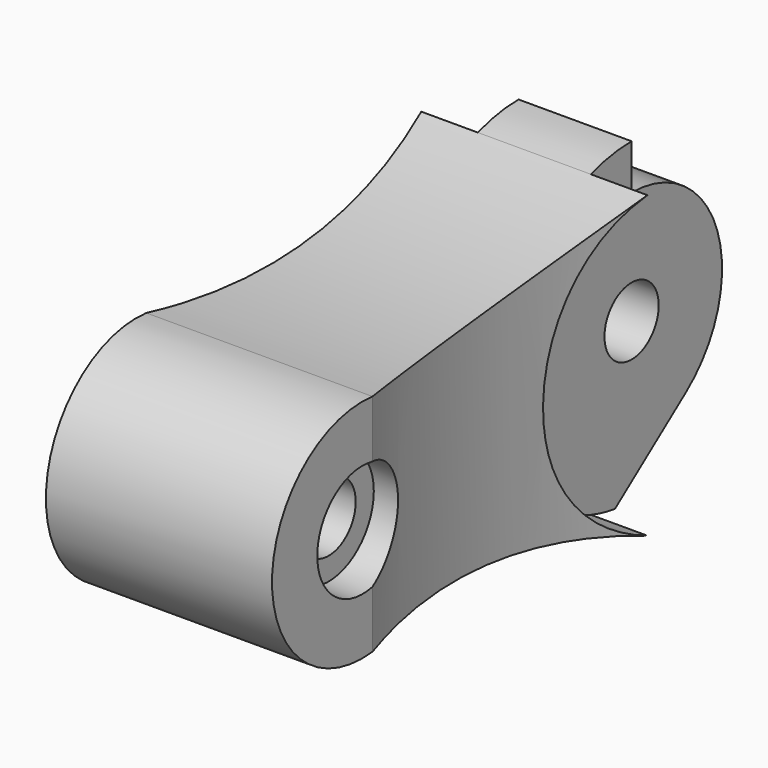
from build123d import *

# Parameters (mm, degrees)
F1_DEPTH  = 2.5
F3_DEPTH  = 5
F5_DEPTH  = 2.5
F6_R      = 7
F7_DEPTH  = 2.5
F8_R      = 7
F9_DEPTH  = 2.5
F11_DEPTH = 7.501
F12_R     = 1.5
F13_DEPTH = 10.001
F14_R     = 2.5
F15_DEPTH = 1.5
F16_R     = 2.5
F17_DEPTH = 1.5
F18_R     = 30.9477503488
F19_DEPTH = 12.5


with BuildPart() as f1:
    # F0 (on Right) → F1 (new body)
    with BuildSketch(Plane.YZ):
        with BuildLine():
            ThreePointArc((15.7492691828, 6.6282886772), (8.2400840273, 4.9647449332), (0.54884134, 4.96978603))
            ThreePointArc((0.54884134, 4.96978603), (-5, 0), (0.54884134, -4.96978603))
            ThreePointArc((0.54884134, -4.96978603), (8.2400840273, -4.9647449332), (15.7492691828, -6.6282886772))
            ThreePointArc((15.7492691828, -6.6282886772), (25, 0), (15.7492691828, 6.6282886772))
        make_face()
    extrude(amount=F1_DEPTH)

    # F2 (on face) → F3 (join)
    with BuildSketch(Plane.YZ.offset(2.5)):
        with BuildLine():
            ThreePointArc((15.7492691828, 6.6282886772), (8.2400840273, 4.9647449332), (0.54884134, 4.96978603))
            ThreePointArc((0.54884134, 4.96978603), (-5, 0), (0.54884134, -4.96978603))
            ThreePointArc((0.54884134, -4.96978603), (8.2400840273, -4.9647449332), (15.7492691828, -6.6282886772))
            ThreePointArc((15.7492691828, -6.6282886772), (25, 0), (15.7492691828, 6.6282886772))
        make_face()
    extrude(amount=F3_DEPTH)

    # F4 (on face) → F5 (join)
    with BuildSketch(Plane.YZ.offset(7.5)):
        with BuildLine():
            ThreePointArc((15.7492691828, 6.6282886772), (8.2400840273, 4.9647449332), (0.54884134, 4.96978603))
            ThreePointArc((0.54884134, 4.96978603), (-5, 0), (0.54884134, -4.96978603))
            ThreePointArc((0.54884134, -4.96978603), (8.2400840273, -4.9647449332), (15.7492691828, -6.6282886772))
            ThreePointArc((15.7492691828, -6.6282886772), (21.0150139959, -6.3174117013), (24.5686792392, -2.4191843774))
            ThreePointArc((24.5686792392, -2.4191843774), (23.0125205049, 4.8861680474), (15.7492691828, 6.6282886772))
        make_face()
    extrude(amount=F5_DEPTH)

    # F6 (on face) → F7 (cut)
    with BuildSketch(Plane.YZ.offset(10)):
        with Locations((18, 0)):
            Circle(F6_R)
    extrude(amount=-F7_DEPTH, mode=Mode.SUBTRACT)

    # F8 (on face) → F9 (cut)
    with BuildSketch(Plane(origin=(0, 0, 0), x_dir=(0, -1, 0), z_dir=(-1, 0, 0))):
        with Locations((-18, 0)):
            Circle(F8_R)
    extrude(amount=-F9_DEPTH, mode=Mode.SUBTRACT)

    # F10 (on face) → F11 (cut, through all)
    with BuildSketch(Plane.YZ.offset(7.5)):
        with BuildLine():
            ThreePointArc((18, 5), (22.7434164903, 1.5811388301), (21, -4))
            Line((21, -4), (17.0808164115, -6.9393876913))
            ThreePointArc((17.0808164115, -6.9393876913), (24.9848304861, -0.4605899264), (18, 7))
            Line((18, 7), (18, 5))
        make_face()
    extrude(amount=-F11_DEPTH, mode=Mode.SUBTRACT)

    # F12 (on face) → F13 (cut, through all)
    with BuildSketch(Plane.YZ.offset(10)):
        Circle(F12_R)
        with Locations((18, 0)):
            Circle(F12_R)
    extrude(amount=-F13_DEPTH, mode=Mode.SUBTRACT)

    # F14 (on face) → F15 (cut)
    with BuildSketch(Plane.YZ.offset(10)):
        Circle(F14_R)
    extrude(amount=-F15_DEPTH, mode=Mode.SUBTRACT)

    # F16 (on face) → F17 (cut)
    with BuildSketch(Plane(origin=(0, 0, 0), x_dir=(0, -1, 0), z_dir=(-1, 0, 0))):
        Circle(F16_R)
    extrude(amount=-F17_DEPTH, mode=Mode.SUBTRACT)

    # F18 (on Top) → F19 (cut, symmetric)
    with BuildSketch(Plane.XY):
        with Locations((-30, 8.1490552614)):
            Circle(F18_R)
        with Locations((40, 8.1490552614)):
            Circle(F18_R)
    extrude(amount=F19_DEPTH, both=True, mode=Mode.SUBTRACT)


solid = f1.part
